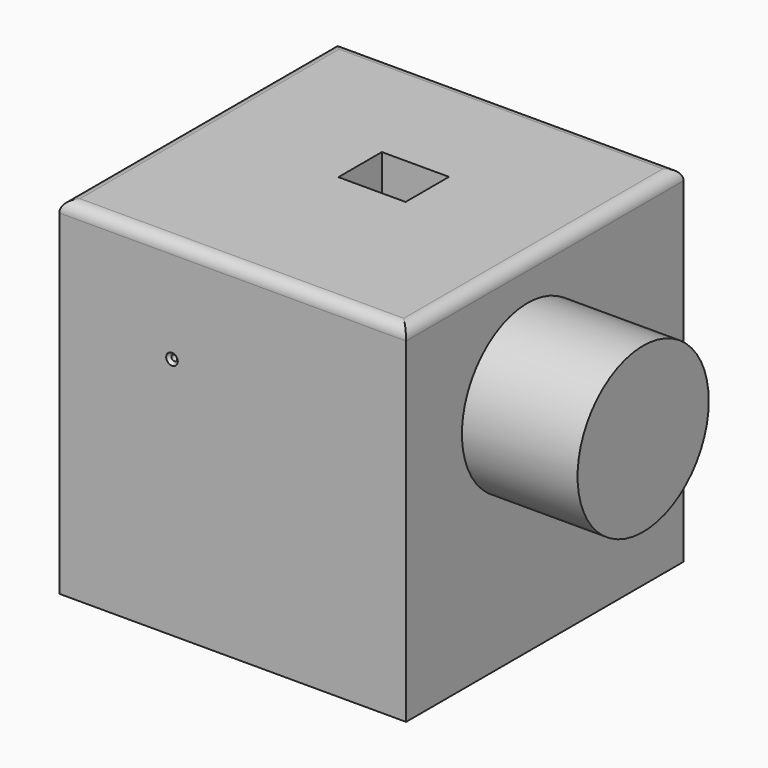
from build123d import *

# Parameters (mm, degrees)
F0_W           = 381
F0_H           = 381
F1_DEPTH       = 381
F3_D           = 6.35
F3_CSINK_D     = 12.7
F3_CSINK_ANGLE = 90
F4_R           = 12.7
F5_R           = 90.072303
F6_DEPTH       = 127
F7_W           = 73.772475
F7_H           = 59.68143
F8_DEPTH       = 508


with BuildPart() as f1:
    # F0 (on Front) → F1 (new body)
    with BuildSketch(Plane.XZ):
        with Locations((190.5, 190.5)):
            Rectangle(F0_W, F0_H)
    extrude(amount=F1_DEPTH)

    # F3 (through all)
    with Locations(Plane.XZ.offset(381)):
        with Locations((123.825006, 267.081022)):
            CounterSinkHole(F3_D / 2, F3_CSINK_D / 2, counter_sink_angle=F3_CSINK_ANGLE)

    # F4
    f4_edges = [f1.edges().sort_by_distance(p)[0] for p in [
        (381, -190.5, 381),
        (0, -190.5, 381),
        (190.5, 0, 381),
        (190.5, -381, 381),
    ]]
    fillet(f4_edges, radius=F4_R)

    # F5 (on face) → F6 (join)
    with BuildSketch(Plane.YZ.offset(381)):
        with Locations((-214.303002, 247.298166)):
            Circle(F5_R)
    extrude(amount=F6_DEPTH)

    # F7 (on face) → F8 (cut)
    with BuildSketch(Plane.XY.offset(381)):
        with Locations((197.570882, -168.751098)):
            Rectangle(F7_W, F7_H)
    extrude(amount=-F8_DEPTH, mode=Mode.SUBTRACT)


solid = f1.part
